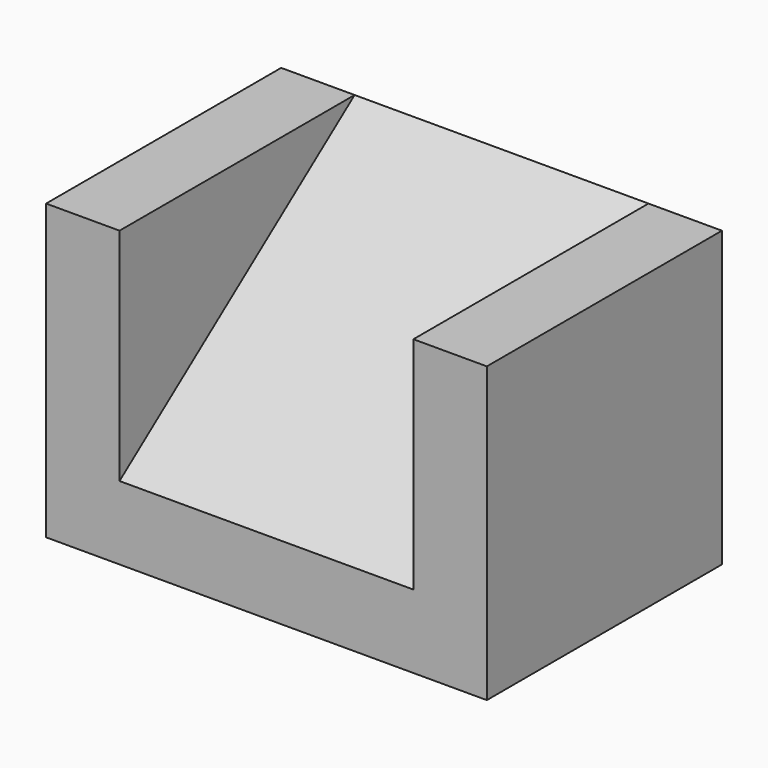
from build123d import *

# Parameters (mm, degrees)
F1_DEPTH = 10
F3_DEPTH = 20


with BuildPart() as f1:
    # F0 (on Front) → F1 (new body, symmetric)
    with BuildSketch(Plane.XZ):
        Polygon((5, 20), (0, 20), (0, 0), (30, 0), (30, 20), (25, 20), (25, 5), (5, 5), align=None)
    extrude(amount=F1_DEPTH, both=True)

    # F2 (on face) → F3 (join, through all)
    with BuildSketch(Plane.YZ.offset(5)):
        Polygon((10, 5), (10, 20), (-10, 5), align=None)
    extrude(amount=F3_DEPTH)


solid = f1.part
